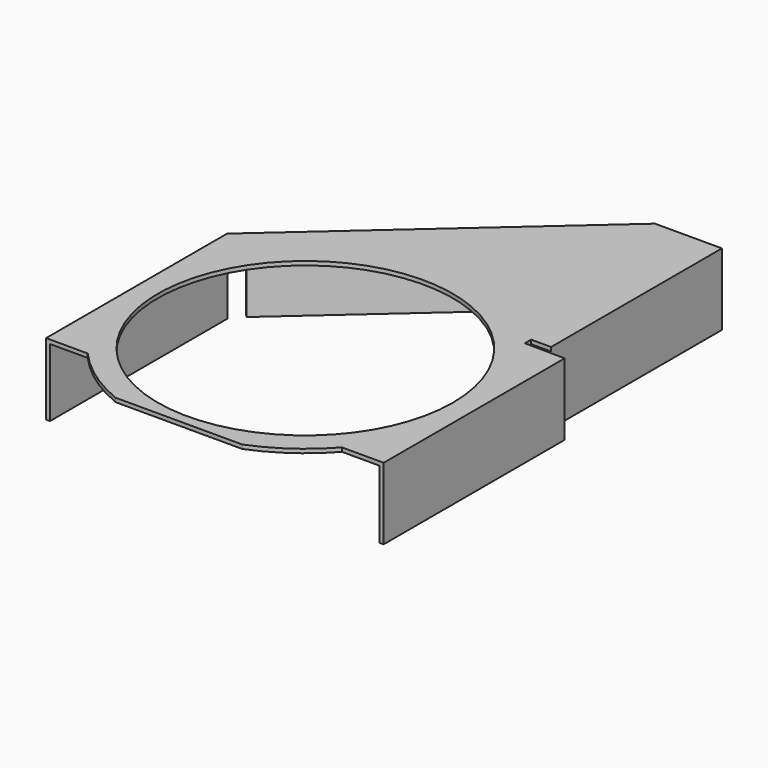
from build123d import *

# Parameters (mm, degrees)
F0_R     = 19.05
F1_DEPTH = 0.508
F2_W     = 0.508
F2_H     = 28.6766
F2_H_2   = 29.21
F2_H_3   = 27.947833
F3_DEPTH = 8.763


with BuildPart() as f1:
    # F0 (on Top) → F1 (new body)
    with BuildSketch(Plane.XY):
        with BuildLine():
            Line((-21.7932, 14.605), (-21.7932, -14.605))
            Line((-21.7932, -14.605), (-16.413982, -14.605))
            ThreePointArc((-16.413982, -14.605), (-12.627577, -17.979687), (-8.168223, -20.3962))
            Line((-8.168223, -20.3962), (8.168223, -20.3962))
            ThreePointArc((8.168223, -20.3962), (12.627577, -17.979687), (16.413982, -14.605))
            Line((16.413982, -14.605), (21.7932, -14.605))
            Line((21.7932, -14.605), (21.7932, 14.605))
            Line((21.7932, 14.605), (16.591823, 14.662176))
            Line((16.591823, 14.662176), (16.591823, 15.678176))
            Line((16.591823, 15.678176), (19.177, 15.678176))
            Line((19.177, 15.678176), (19.177, 43.2562))
            Line((19.177, 43.2562), (10.541, 43.2562))
            Line((10.541, 43.2562), (-21.7932, 14.605))
        make_face()
        Circle(F0_R, mode=Mode.SUBTRACT)
    extrude(amount=F1_DEPTH)

    # F2 (on face) → F3 (join)
    with BuildSketch(Plane(origin=(0, 0, 0), x_dir=(1, 0, 0), z_dir=(0, 0, -1))):
        with Locations((-21.5392, 0.2667)):
            Rectangle(F2_W, F2_H)
        with Locations((21.5392, 0)):
            Rectangle(F2_W, F2_H_2)
        Polygon((-20.351141, -15.882803), (9.014963, -41.903985), (9.351866, -41.523774), (-20.014238, -15.502592), align=None)
        with Locations((18.923, -29.282283)):
            Rectangle(F2_W, F2_H_3)
    extrude(amount=F3_DEPTH)


solid = f1.part
